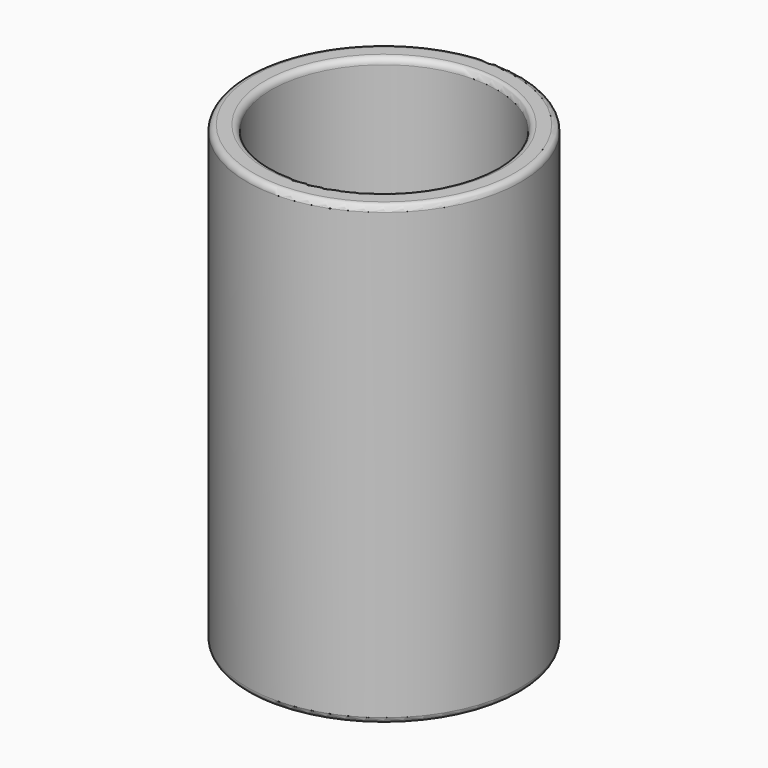
from build123d import *

# Parameters (mm, degrees)
F0_R     = 4.5
F1_DEPTH = 15
F2_R     = 2.625
F3_DEPTH = 25
F2_R_2   = 3.7
F4_DEPTH = 13
F5_R     = 0.2
F6_SIZE  = 0.8


with BuildPart() as f1:
    # F0 (on Top) → F1 (new body)
    with BuildSketch(Plane.XY):
        Circle(F0_R)
    extrude(amount=F1_DEPTH)

    # F2 (on face) → F3 (cut)
    with BuildSketch(Plane.XY.offset(15)):
        Circle(F2_R)
    extrude(amount=-F3_DEPTH, mode=Mode.SUBTRACT)

    # F2 (on face) → F4 (cut)
    with BuildSketch(Plane.XY.offset(15)):
        Circle(F2_R_2)
        Circle(F2_R, mode=Mode.SUBTRACT)
    extrude(amount=-F4_DEPTH, mode=Mode.SUBTRACT)

    # F5
    f5_edges = [f1.edges().sort_by_distance(p)[0] for p in [
        (-4.5, 0, 15),
        (-3.7, 0, 15),
        (-4.5, 0, 0),
    ]]
    fillet(f5_edges, radius=F5_R)

    # F6
    f6_edges = [f1.edges().sort_by_distance(p)[0] for p in [
        (-2.625, 0, 0),
    ]]
    chamfer(f6_edges, length=F6_SIZE)


solid = f1.part
